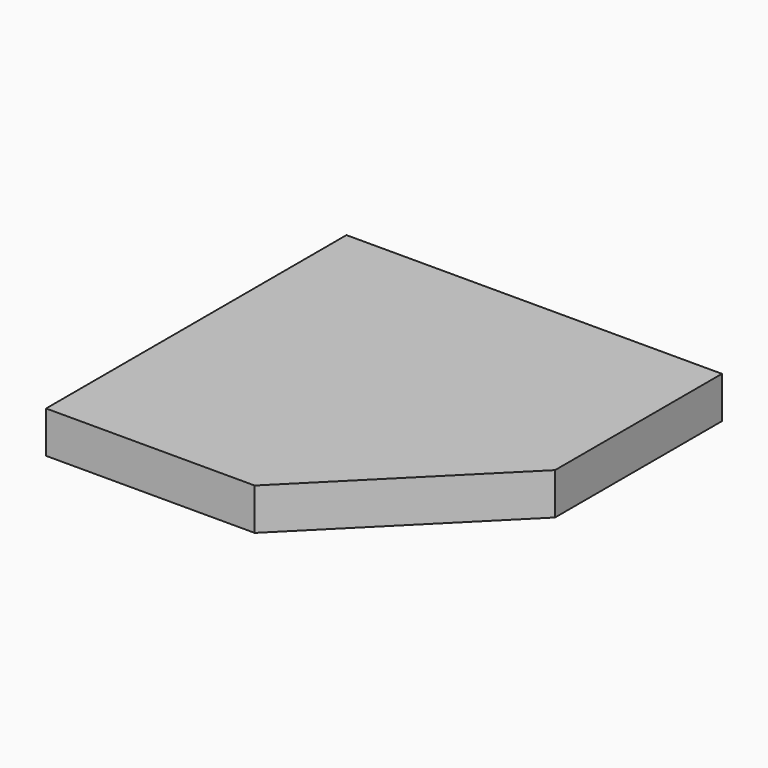
from build123d import *

# Parameters (mm, degrees)
F1_DEPTH = 3.6
F4_DEPTH = 56.4


with BuildPart() as f1:
    # F0 (on Top) → F1 (new body)
    with BuildSketch(Plane.XY):
        Polygon((270, 270), (-270, 270), (-270, -270), (30, -270), (270, -30), align=None)
    extrude(amount=-F1_DEPTH)

    # F3 (on offset) → F4 (join, through all)
    with BuildSketch(Plane.XY.offset(-60)):
        Polygon((270, 270), (-270, 270), (-270, -270), (30, -270), (270, -30), align=None)
        Polygon((-260, 260), (260, 260), (260, -25.857864), (25.857864, -260), (-260, -260), align=None, mode=Mode.SUBTRACT)
    extrude(amount=F4_DEPTH)


solid = f1.part
